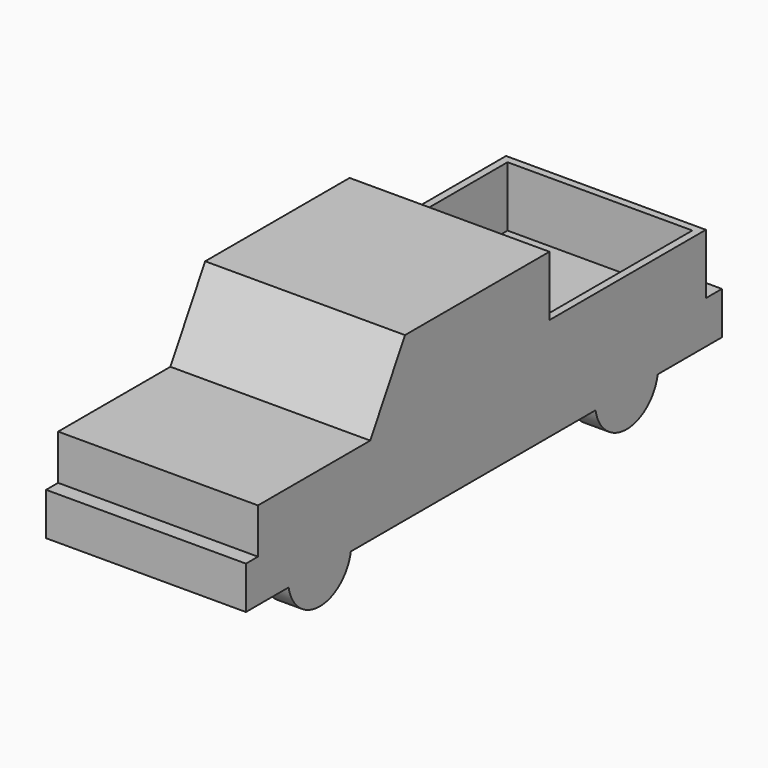
from build123d import *

# Parameters (mm, degrees)
F0_W     = 2024.38
F0_H     = 6027.42
F1_DEPTH = 1981.2
F3_DEPTH = 2024.381
F4_W     = 1516.38
F4_H     = 330.2
F5_DEPTH = 6027.421
F7_DEPTH = 2024.381
F8_W     = 1871.98
F8_H     = 1828.8
F9_DEPTH = 609.6


with BuildPart() as f1:
    # F0 (on Top) → F1 (new body)
    with BuildSketch(Plane.XY):
        with Locations((1012.19, 3013.71)):
            Rectangle(F0_W, F0_H)
    extrude(amount=F1_DEPTH)

    # F2 (on face) → F3 (cut, through all)
    with BuildSketch(Plane.YZ.offset(2024.38)):
        Polygon((5824.22, 762), (6027.42, 762), (6027.42, 1981.2), (3843.02, 1981.2), (3843.02, 1371.6), (5824.22, 1371.6), align=None)
        Polygon((1574.279095, 1219.2), (2014.22, 1981.2), (0, 1981.2), (0, 762), (152.4, 762), (152.4, 1219.2), align=None)
    extrude(amount=-F3_DEPTH, mode=Mode.SUBTRACT)

    # F4 (on face) → F5 (cut, through all)
    with BuildSketch(Plane.XZ):
        with Locations((1012.19, 165.1)):
            Rectangle(F4_W, F4_H)
    extrude(amount=-F5_DEPTH, mode=Mode.SUBTRACT)

    # F6 (on face) → F7 (cut, through all)
    with BuildSketch(Plane.YZ.offset(2024.38)):
        with BuildLine():
            ThreePointArc((5214.62, 330.2), (5077.713765, 93.469264), (4820.715214, 0))
            Line((4820.715214, 0), (6027.42, 0))
            Line((6027.42, 0), (6027.42, 330.2))
            Line((6027.42, 330.2), (5214.62, 330.2))
        make_face()
        with BuildLine():
            ThreePointArc((1328.42, 330.2), (1191.513765, 93.469264), (934.515214, 0))
            Line((934.515214, 0), (4820.715214, 0))
            ThreePointArc((4820.715214, 0), (4563.716664, 93.469265), (4426.810429, 330.2))
            Line((4426.810429, 330.2), (1328.42, 330.2))
        make_face()
        with BuildLine():
            Line((540.610429, 330.2), (0, 330.2))
            Line((0, 330.2), (0, 0))
            Line((0, 0), (934.515214, 0))
            ThreePointArc((934.515214, 0), (677.516664, 93.469264), (540.610429, 330.2))
        make_face()
    extrude(amount=-F7_DEPTH, mode=Mode.SUBTRACT)

    # F8 (on face) → F9 (cut, through all)
    with BuildSketch(Plane.XY.offset(1371.6)):
        with Locations((1012.19, 4833.62)):
            Rectangle(F8_W, F8_H)
    extrude(amount=-F9_DEPTH, mode=Mode.SUBTRACT)


solid = f1.part
